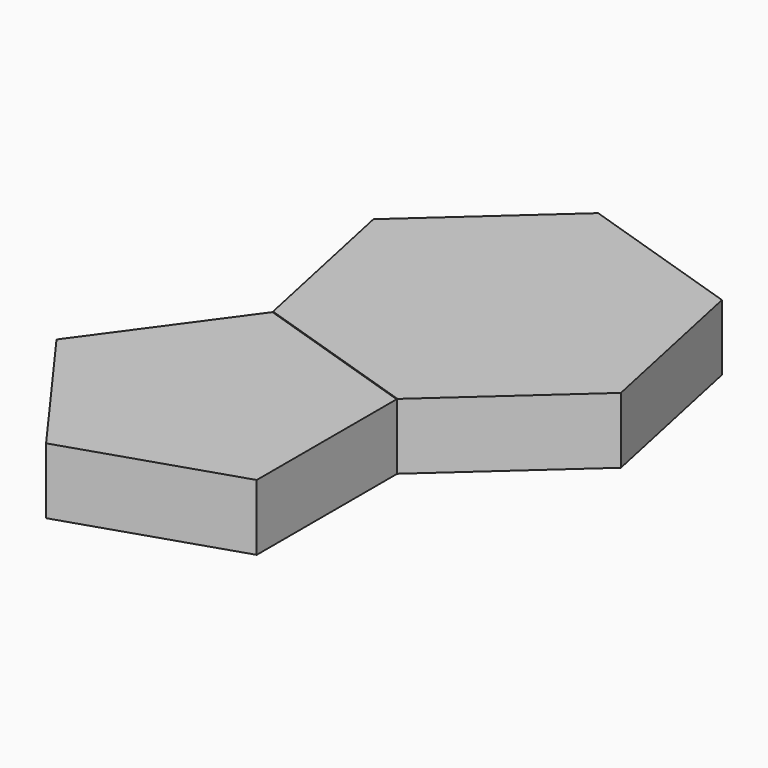
from build123d import *

# Parameters (mm, degrees)
F1_DEPTH = 19.05
F3_DEPTH = 6.35


with BuildPart() as f1:
    # F0 (on Top) → F1 (new body)
    with BuildSketch(Plane.XY):
        Polygon((34.96010078, -25.4), (34.96010078, 25.3421400921), (34.7843567738, 25.1838994782), (-13.5141550661, 40.8770372737), (-43.2130610643, 0), (-13.3535702478, -41.0980633142), align=None)
    extrude(amount=F1_DEPTH)

    # F2 (on Top) → F3 (join)
    with BuildSketch(Plane.XY):
        Polygon((30.8235474857, 22.3946181123), (-11.7735474857, 36.2352532708), (-38.1, 0), (-11.7735474857, -36.2352532708), (30.8235474857, -22.3946181123), align=None)
    extrude(amount=F3_DEPTH)


with BuildPart() as f1b:
    # F0 (on Top) → F1, piece 2 (new body)
    with BuildSketch(Plane.XY):
        Polygon((-13.3535702478, 41.0980633142), (34.96010078, 25.4), (34.96010078, 25.3421400921), (72.5361139081, 59.1757342813), (61.9742000145, 108.8656323985), (13.6605289867, 124.5636957128), (-24.0912281475, 90.5718609097), (-13.529314254, 40.8819627925), (-13.5141550661, 40.8770372737), align=None)
    extrude(amount=F1_DEPTH)

    # F2 (on Top) → F3, piece 2 (join)
    with BuildSketch(Plane.XY):
        Polygon((65.8560563026, 60.7291496289), (56.7743352886, 103.4552877571), (15.231553757, 116.953355713), (-17.2295067606, 87.7252855408), (-8.1477857467, 44.9991474126), (33.3949957849, 31.5010794567), align=None)
    extrude(amount=F3_DEPTH)


solid = Compound([f1.part, f1b.part])
